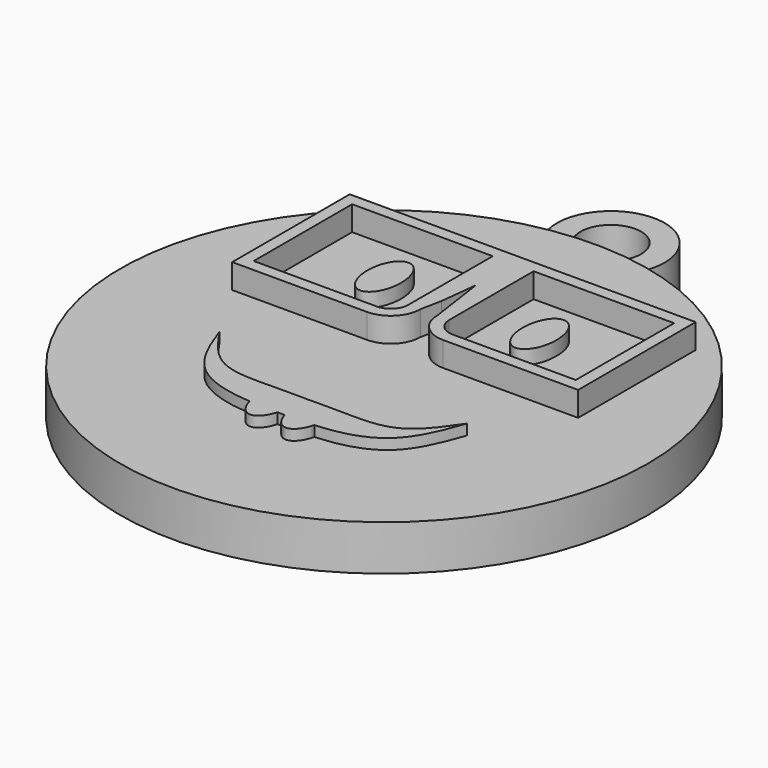
from build123d import *

# Parameters (mm, degrees)
F0_R     = 75.0928281094
F2_DEPTH = 12.9
F3_DEPTH = 15.9
F5_DEPTH = 4
F6_R     = 15.2965579627
F6_R_2   = 8.6311016996
F7_DEPTH = 11
F9_DEPTH = 7


with BuildPart() as f2:
    # F0 (on Top) → F2 (new body)
    with BuildSketch(Plane.XY):
        Circle(F0_R)
    extrude(amount=F2_DEPTH)

    # F1 (on face) → F3 (join)
    with BuildSketch(Plane.XY):
        with BuildLine():
            add(Edge.make_bspline(
                [(-35.2451838553, -14.5340962335), (-32.0518207836, -19.1964482892), (-26.2372639575, -27.9738789108), (-14.7014562583, -27.6842216687), (-9.08471609, -27.5584450171)],
                knots=[0, 0, 0, 0, 0.4527149803, 0.8127890997, 0.8127890997, 0.8127890997, 0.8127890997], degree=3))
            add(Edge.make_bspline(
                [(-35.2451838553, -14.5340962335), (-32.8115077506, -21.3914317712), (-28.4404924532, -32.6892135381), (-15.405757475, -35.9303240461), (-9.2133200428, -36.2957460358)],
                knots=[0, 0, 0, 0, 0.4690101989, 0.827322276, 0.827322276, 0.827322276, 0.827322276], degree=3))
            add(Edge.make_bspline(
                [(-9.08471609, -27.5584450171), (-10.3725503531, -31.8579406773), (-9.2133200428, -36.2957460358)],
                knots=[1.0400212004, 1.0400212004, 1.0400212004, 2.0439012187, 2.0439012187, 2.0439012187], degree=2, weights=[1, 0.8766508211, 1]))
        make_face()
        with BuildLine():
            add(Edge.make_bspline(
                [(-9.08471609, -27.5584450171), (-10.3725503531, -31.8579406773), (-9.2133200428, -36.2957460358)],
                knots=[1.0400212004, 1.0400212004, 1.0400212004, 2.0439012187, 2.0439012187, 2.0439012187], degree=2, weights=[1, 0.8766508211, 1]))
            add(Edge.make_bspline(
                [(-9.2133200428, -36.2957460358), (-6.5297495568, -36.4541062417), (-3.7434296225, -36.417470813), (-0.9420935331, -36.2243297496)],
                knots=[0.827322276, 0.827322276, 0.827322276, 0.827322276, 0.9826013119, 0.9826013119, 0.9826013119, 0.9826013119], degree=3))
            add(Edge.make_bspline(
                [(-0.9420935331, -36.2243297496), (0.1851268686, -31.8136655998), (-1.0889131788, -27.559237201)],
                knots=[4.2480963919, 4.2480963919, 4.2480963919, 5.2430629887, 5.2430629887, 5.2430629887], degree=2, weights=[1, 0.8787863524, 1]))
            add(Edge.make_bspline(
                [(-9.08471609, -27.5584450171), (-6.5062543312, -27.5007050689), (-3.8211027643, -27.4435013669), (-1.0889131788, -27.559237201)],
                knots=[0.8127890997, 0.8127890997, 0.8127890997, 0.8127890997, 0.9780873545, 0.9780873545, 0.9780873545, 0.9780873545], degree=3))
        make_face()
        with BuildLine():
            add(Edge.make_bspline(
                [(-9.2133200428, -36.2957460358), (-6.5297495568, -36.4541062417), (-3.7434296225, -36.417470813), (-0.9420935331, -36.2243297496)],
                knots=[0.827322276, 0.827322276, 0.827322276, 0.827322276, 0.9826013119, 0.9826013119, 0.9826013119, 0.9826013119], degree=3))
            add(Edge.make_bspline(
                [(-9.2133200428, -36.2957460358), (-5.2569763, -51.441557274), (-1.035979555, -36.5726214568)],
                knots=[2.0439012187, 2.0439012187, 2.0439012187, 4.204730432, 4.204730432, 4.204730432], degree=2, weights=[1, 0.4709626581, 1]))
            add(Edge.make_bspline(
                [(-1.035979555, -36.5726214568), (-0.9871093073, -36.4004705121), (-0.9420935331, -36.2243297496)],
                knots=[4.204730432, 4.204730432, 4.204730432, 4.2480963919, 4.2480963919, 4.2480963919], degree=2, weights=[1, 0.9997649334, 1]))
        make_face()
        with BuildLine():
            add(Edge.make_bspline(
                [(-0.9420935331, -36.2243297496), (0.1851268686, -31.8136655998), (-1.0889131788, -27.559237201)],
                knots=[4.2480963919, 4.2480963919, 4.2480963919, 5.2430629887, 5.2430629887, 5.2430629887], degree=2, weights=[1, 0.8787863524, 1]))
            add(Edge.make_bspline(
                [(-0.9420935331, -36.2243297496), (-0.6282097401, -36.2026887014), (-0.3141374234, -36.1790827672), (0, -36.1535660923)],
                knots=[0.9826013119, 0.9826013119, 0.9826013119, 0.9826013119, 1, 1, 1, 1], degree=3))
            add(Edge.make_bspline(
                [(0.9420935331, -36.2243297496), (0.6282097401, -36.2026887014), (0.3141374234, -36.1790827672), (0, -36.1535660923)],
                knots=[0.9826013119, 0.9826013119, 0.9826013119, 0.9826013119, 1, 1, 1, 1], degree=3))
            add(Edge.make_bspline(
                [(1.0889131788, -27.559237201), (-0.1851268686, -31.8136655998), (0.9420935331, -36.2243297496)],
                knots=[1.0401223185, 1.0401223185, 1.0401223185, 2.0350889153, 2.0350889153, 2.0350889153], degree=2, weights=[1, 0.8787863524, 1]))
            add(Edge.make_bspline(
                [(1.0889131788, -27.559237201), (0.7267224105, -27.5745796394), (0.3637050295, -27.5929611946), (0, -27.6147834957)],
                knots=[0.9780873545, 0.9780873545, 0.9780873545, 0.9780873545, 1, 1, 1, 1], degree=3))
            add(Edge.make_bspline(
                [(-1.0889131788, -27.559237201), (-0.7267224105, -27.5745796394), (-0.3637050295, -27.5929611946), (0, -27.6147834957)],
                knots=[0.9780873545, 0.9780873545, 0.9780873545, 0.9780873545, 1, 1, 1, 1], degree=3))
        make_face()
        with BuildLine():
            add(Edge.make_bspline(
                [(-0.9420935331, -36.2243297496), (-0.6282097401, -36.2026887014), (-0.3141374234, -36.1790827672), (0, -36.1535660923)],
                knots=[0.9826013119, 0.9826013119, 0.9826013119, 0.9826013119, 1, 1, 1, 1], degree=3))
            add(Edge.make_bspline(
                [(-1.035979555, -36.5726214568), (-0.9871093073, -36.4004705121), (-0.9420935331, -36.2243297496)],
                knots=[4.204730432, 4.204730432, 4.204730432, 4.2480963919, 4.2480963919, 4.2480963919], degree=2, weights=[1, 0.9997649334, 1]))
            Line((-1.035979555, -36.5726214568), (1.0563025697, -36.6434637429))
            add(Edge.make_bspline(
                [(0.9420935331, -36.2243297496), (0.9964001473, -36.4368243386), (1.0563025697, -36.6434637429)],
                knots=[2.0350889153, 2.0350889153, 2.0350889153, 2.087401476, 2.087401476, 2.087401476], degree=2, weights=[1, 0.999657944, 1]))
            add(Edge.make_bspline(
                [(0.9420935331, -36.2243297496), (0.6282097401, -36.2026887014), (0.3141374234, -36.1790827672), (0, -36.1535660923)],
                knots=[0.9826013119, 0.9826013119, 0.9826013119, 0.9826013119, 1, 1, 1, 1], degree=3))
        make_face()
        with BuildLine():
            add(Edge.make_bspline(
                [(0.9420935331, -36.2243297496), (0.9964001473, -36.4368243386), (1.0563025697, -36.6434637429)],
                knots=[2.0350889153, 2.0350889153, 2.0350889153, 2.087401476, 2.087401476, 2.087401476], degree=2, weights=[1, 0.999657944, 1]))
            add(Edge.make_bspline(
                [(1.0563025697, -36.6434637429), (4.92956003, -50.0046531742), (9.036057917, -36.9136491564)],
                knots=[2.087401476, 2.087401476, 2.087401476, 4.1612301746, 4.1612301746, 4.1612301746], degree=2, weights=[1, 0.5088789213, 1]))
            add(Edge.make_bspline(
                [(9.036057917, -36.9136491564), (9.1308451493, -36.6114792608), (9.2133200428, -36.2957460358)],
                knots=[4.1612301746, 4.1612301746, 4.1612301746, 4.2392840885, 4.2392840885, 4.2392840885], degree=2, weights=[1, 0.999238545, 1]))
            add(Edge.make_bspline(
                [(9.2133200428, -36.2957460358), (6.5297495568, -36.4541062417), (3.7434296225, -36.417470813), (0.9420935331, -36.2243297496)],
                knots=[0.827322276, 0.827322276, 0.827322276, 0.827322276, 0.9826013119, 0.9826013119, 0.9826013119, 0.9826013119], degree=3))
        make_face()
        with BuildLine():
            add(Edge.make_bspline(
                [(1.0889131788, -27.559237201), (-0.1851268686, -31.8136655998), (0.9420935331, -36.2243297496)],
                knots=[1.0401223185, 1.0401223185, 1.0401223185, 2.0350889153, 2.0350889153, 2.0350889153], degree=2, weights=[1, 0.8787863524, 1]))
            add(Edge.make_bspline(
                [(9.2133200428, -36.2957460358), (6.5297495568, -36.4541062417), (3.7434296225, -36.417470813), (0.9420935331, -36.2243297496)],
                knots=[0.827322276, 0.827322276, 0.827322276, 0.827322276, 0.9826013119, 0.9826013119, 0.9826013119, 0.9826013119], degree=3))
            add(Edge.make_bspline(
                [(9.2133200428, -36.2957460358), (10.3725503531, -31.8579406773), (9.08471609, -27.5584450171)],
                knots=[4.2392840885, 4.2392840885, 4.2392840885, 5.2431641067, 5.2431641067, 5.2431641067], degree=2, weights=[1, 0.8766508211, 1]))
            add(Edge.make_bspline(
                [(9.08471609, -27.5584450171), (6.5062543312, -27.5007050689), (3.8211027643, -27.4435013669), (1.0889131788, -27.559237201)],
                knots=[0.8127890997, 0.8127890997, 0.8127890997, 0.8127890997, 0.9780873545, 0.9780873545, 0.9780873545, 0.9780873545], degree=3))
        make_face()
        with BuildLine():
            add(Edge.make_bspline(
                [(9.2133200428, -36.2957460358), (10.3725503531, -31.8579406773), (9.08471609, -27.5584450171)],
                knots=[4.2392840885, 4.2392840885, 4.2392840885, 5.2431641067, 5.2431641067, 5.2431641067], degree=2, weights=[1, 0.8766508211, 1]))
            add(Edge.make_bspline(
                [(35.2451838553, -14.5340962335), (32.8115077506, -21.3914317712), (28.4404924532, -32.6892135381), (15.405757475, -35.9303240461), (9.2133200428, -36.2957460358)],
                knots=[0, 0, 0, 0, 0.4690101989, 0.827322276, 0.827322276, 0.827322276, 0.827322276], degree=3))
            add(Edge.make_bspline(
                [(35.2451838553, -14.5340962335), (32.0518207836, -19.1964482892), (26.2372639575, -27.9738789108), (14.7014562583, -27.6842216687), (9.08471609, -27.5584450171)],
                knots=[0, 0, 0, 0, 0.4527149803, 0.8127890997, 0.8127890997, 0.8127890997, 0.8127890997], degree=3))
        make_face()
    extrude(amount=F3_DEPTH)

    # F4 (on face) → F5 (join)
    with BuildSketch(Plane.XY.offset(12.9)):
        with BuildLine():
            add(Edge.make_bspline(
                [(-22.082677111, 36.2915284932), (-30.3896638277, 36.2915284932), (-26.2361704694, 23.4395088628), (-22.082677111, 10.5874892324), (-17.9291837527, 23.4395088628), (-13.7756903943, 36.2915284932), (-22.082677111, 36.2915284932)],
                knots=[0, 0, 0, 2.0943951024, 2.0943951024, 4.1887902048, 4.1887902048, 6.2831853072, 6.2831853072, 6.2831853072], degree=2, weights=[1, 0.5, 1, 0.5, 1, 0.5, 1]))
        make_face()
        with BuildLine():
            add(Edge.make_bspline(
                [(22.082677111, 36.2915284932), (13.7756903943, 36.2915284932), (17.9291837527, 23.4395088628), (22.082677111, 10.5874892324), (26.2361704694, 23.4395088628), (30.3896638277, 36.2915284932), (22.082677111, 36.2915284932)],
                knots=[0, 0, 0, 2.0943951024, 2.0943951024, 4.1887902048, 4.1887902048, 6.2831853072, 6.2831853072, 6.2831853072], degree=2, weights=[1, 0.5, 1, 0.5, 1, 0.5, 1]))
        make_face()
    extrude(amount=F5_DEPTH)

    # F6 (on Top) → F7 (join)
    with BuildSketch(Plane.XY):
        with Locations((0, 80.6815698743)):
            Circle(F6_R)
        with Locations((0, 80.6815698743)):
            Circle(F6_R_2, mode=Mode.SUBTRACT)
    extrude(amount=F7_DEPTH)

    # F8 (on face) → F9 (join)
    with BuildSketch(Plane.XY.offset(12.9)):
        with BuildLine():
            Line((-2.4189469405, 49.3257313765), (-49.2189481235, 49.3257313765))
            Line((-49.2189481235, 49.3257313765), (-49.2189481235, 7.5257301935))
            Line((-49.2189481235, 7.5257301935), (-10.818947532, 7.5257301935))
            ThreePointArc((-10.818947532, 7.5257301935), (-4.8792501517, 9.9860334048), (-2.4189469405, 15.925730785))
            Line((-2.4189469405, 15.925730785), (-1.2094734702, 22.000117611))
            Line((-1.2094734702, 22.000117611), (0, 32.6257310808))
            Line((0, 32.6257310808), (2.4189469405, 15.925730785))
            ThreePointArc((2.4189469405, 15.925730785), (4.8792501517, 9.9860334048), (10.818947532, 7.5257301935))
            Line((10.818947532, 7.5257301935), (49.2189481235, 7.5257301935))
            Line((49.2189481235, 7.5257301935), (49.2189481235, 49.3257313765))
            Line((49.2189481235, 49.3257313765), (2.4189469405, 49.3257313765))
            Line((2.4189469405, 49.3257313765), (-2.4189469405, 49.3257313765))
        make_face()
        with BuildLine():
            Line((-45.818947532, 10.925730785), (-45.818947532, 45.925730785))
            Line((-45.818947532, 45.925730785), (-5.818947532, 45.925730785))
            Line((-5.818947532, 45.925730785), (-5.818947532, 15.925730785))
            ThreePointArc((-5.818947532, 15.925730785), (-7.2834136261, 12.3901968791), (-10.818947532, 10.925730785))
            Line((-10.818947532, 10.925730785), (-45.818947532, 10.925730785))
        make_face(mode=Mode.SUBTRACT)
        with BuildLine():
            Line((5.818947532, 15.925730785), (5.818947532, 45.925730785))
            Line((5.818947532, 45.925730785), (45.818947532, 45.925730785))
            Line((45.818947532, 45.925730785), (45.818947532, 10.925730785))
            Line((45.818947532, 10.925730785), (10.818947532, 10.925730785))
            ThreePointArc((10.818947532, 10.925730785), (7.2834136261, 12.3901968791), (5.818947532, 15.925730785))
        make_face(mode=Mode.SUBTRACT)
    extrude(amount=F9_DEPTH)


solid = f2.part
